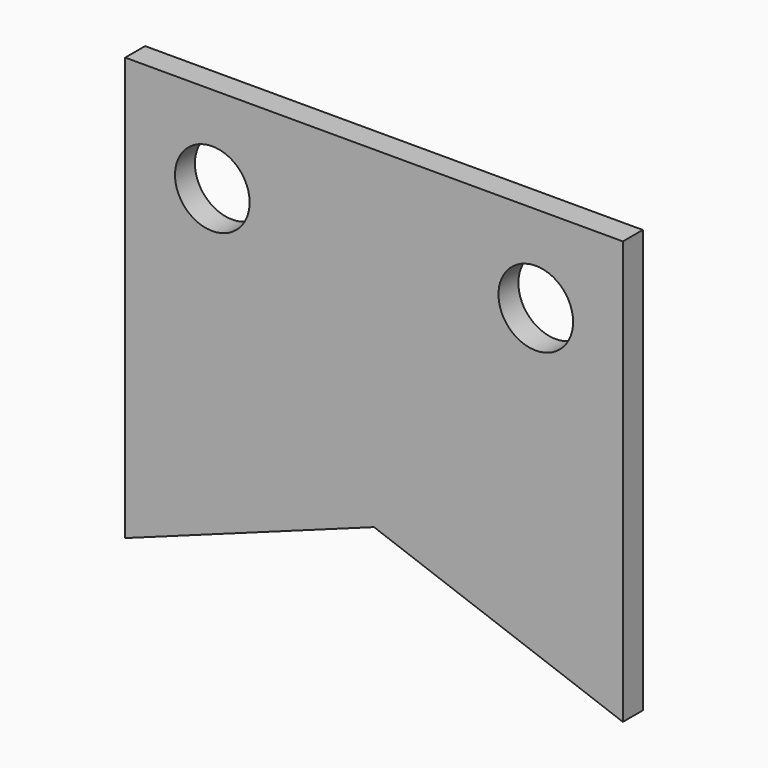
from build123d import *

# Parameters (mm, degrees)
F0_W     = 200
F0_H     = 170
F0_R     = 15
F1_DEPTH = 10
F3_DEPTH = 10.001


with BuildPart() as f1:
    # F0 (on Front) → F1 (new body)
    with BuildSketch(Plane.XZ):
        Rectangle(F0_W, F0_H)
        with Locations((-65, 50)):
            Circle(F0_R, mode=Mode.SUBTRACT)
        with Locations((65, 50)):
            Circle(F0_R, mode=Mode.SUBTRACT)
    extrude(amount=F1_DEPTH)

    # F2 (on face) → F3 (cut, through all)
    with BuildSketch(Plane.XZ.offset(10)):
        Polygon((0, -48.602977), (-100, -85), (100, -85), align=None)
    extrude(amount=-F3_DEPTH, mode=Mode.SUBTRACT)


solid = f1.part
